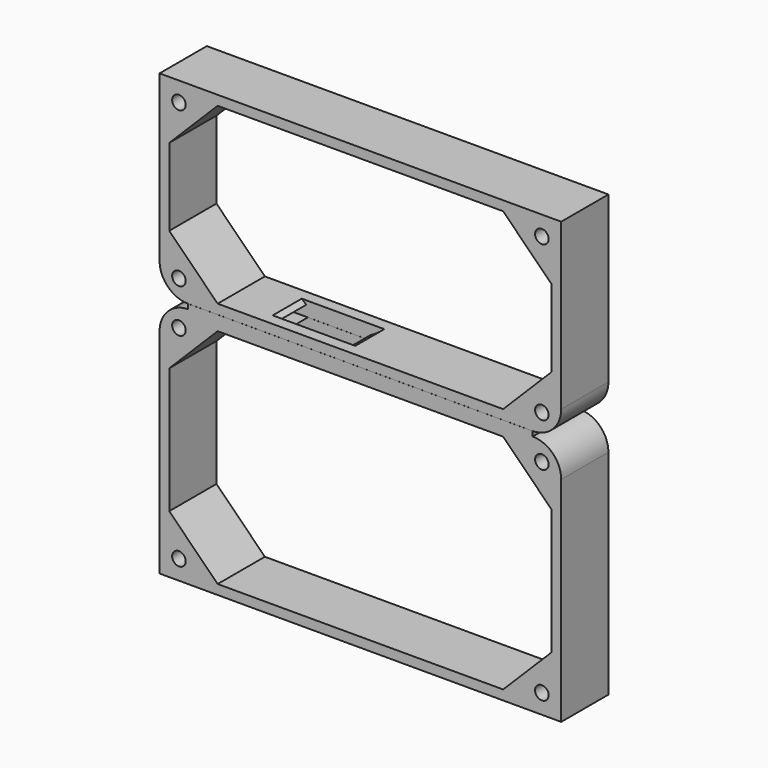
from build123d import *

# Parameters (mm, degrees)
F0_W      = 105.41
F0_H      = 50.8
F2_DEPTH  = 15.494
F1_W      = 105.41
F1_H      = 63.5
F3_DEPTH  = 15.494
F4_W      = 100.33
F4_H      = 45.72
F6_DEPTH  = 25.4
F5_W      = 100.33
F5_H      = 58.42
F7_DEPTH  = 25.4
F8_SIZE   = 12.7
F9_SIZE   = 12.7
F10_R     = 1.778
F12_DEPTH = 25.4
F11_R     = 1.778
F13_DEPTH = 25.4
F16_DEPTH = 4.7625
F17_R     = 7.4811649871
F17_2_R   = 7.4811649871
F18_W     = 37.8915182585
F18_H     = 2.9845
F19_DEPTH = 1.27
F20_W     = 37.8787715588
F20_H     = 2.9845
F21_DEPTH = 1.27
F22_W     = 33.4627879753
F22_H     = 9.4689852803
F23_DEPTH = 1.524


with BuildPart() as f2:
    # F0 (on Front) → F2 (new body)
    with BuildSketch(Plane.XZ):
        with Locations((-0.0005561543, 26.0399340928)):
            Rectangle(F0_W, F0_H)
    extrude(amount=F2_DEPTH)

    # F4 (on face) → F6 (cut)
    with BuildSketch(Plane.XZ.offset(15.494)):
        with Locations((-0.0005561543, 26.0399340928)):
            Rectangle(F4_W, F4_H)
    extrude(amount=-F6_DEPTH, mode=Mode.SUBTRACT)

    # F8
    f8_edges = [f2.edges().sort_by_distance(p)[0] for p in [
        (-50.165556, -7.747, 48.899934),
        (-50.165556, -7.747, 3.179934),
        (50.164444, -7.747, 48.899934),
        (50.164444, -7.747, 3.179934),
    ]]
    chamfer(f8_edges, length=F8_SIZE)

    # F10 (on face) → F12 (cut)
    with BuildSketch(Plane.XZ.offset(15.494)):
        with Locations((-47.6255561543, 46.3599340928)):
            Circle(F10_R)
        with Locations((47.6244438457, 46.3599340928)):
            Circle(F10_R)
        with Locations((47.6244438457, 5.7199340928)):
            Circle(F10_R)
        with Locations((-47.6255561543, 5.7199340928)):
            Circle(F10_R)
    extrude(amount=-F12_DEPTH, mode=Mode.SUBTRACT)


with BuildPart() as f3:
    # F1 (on Front) → F3 (new body)
    with BuildSketch(Plane.XZ):
        with Locations((0.0013719928, -32.3886321804)):
            Rectangle(F1_W, F1_H)
    extrude(amount=F3_DEPTH)

    # F5 (on face) → F7 (cut)
    with BuildSketch(Plane.XZ.offset(15.494)):
        with Locations((0.0013719928, -32.3886321804)):
            Rectangle(F5_W, F5_H)
    extrude(amount=-F7_DEPTH, mode=Mode.SUBTRACT)

    # F9
    f9_edges = [f3.edges().sort_by_distance(p)[0] for p in [
        (-50.163628, -7.747, -3.178632),
        (50.166372, -7.747, -3.178632),
        (-50.163628, -7.747, -61.598632),
        (50.166372, -7.747, -61.598632),
    ]]
    chamfer(f9_edges, length=F9_SIZE)

    # F11 (on face) → F13 (cut)
    with BuildSketch(Plane.XZ.offset(15.494)):
        with Locations((-47.6236280072, -5.7186321804)):
            Circle(F11_R)
        with Locations((47.6263719928, -5.7186321804)):
            Circle(F11_R)
        with Locations((47.6263719928, -59.0586321804)):
            Circle(F11_R)
        with Locations((-47.6236280072, -59.0586321804)):
            Circle(F11_R)
    extrude(amount=-F13_DEPTH, mode=Mode.SUBTRACT)


with BuildPart() as f16_tool:
    # F15 (on offset) → F16 (new body, symmetric)
    with BuildSketch(Plane.XZ.offset(7.747)):
        with BuildLine():
            ThreePointArc((-20.7305265373, 0.1485658363), (-34.1169625247, -54.0672234968), (16.3385446548, -30.1341861486))
            ThreePointArc((16.3385446548, -30.1341861486), (9.3676365689, -10.5826244032), (-8.4002750212, 0.1485658363))
            ThreePointArc((-8.4002750212, 0.1485658363), (-14.5654007792, -1.0989419614), (-20.7305265373, 0.1485658363))
        make_face()
        with BuildLine():
            ThreePointArc((-20.7305265373, 0.1485658363), (-14.5654007792, -1.0989419614), (-8.4002750212, 0.1485658363))
            ThreePointArc((-8.4002750212, 0.1485658363), (-14.5654007792, 0.7697592854), (-20.7305265373, 0.1485658363))
        make_face()
        with BuildLine():
            ThreePointArc((-20.7305265373, 0.1485658363), (-14.5654007792, 0.7697592854), (-8.4002750212, 0.1485658363))
            ThreePointArc((-8.4002750212, 0.1485658363), (-1.3512232992, 5.9922725627), (1.2922360991, 14.758694917))
            ThreePointArc((1.2922360991, 14.758694917), (-23.3318231335, 27.972872397), (-20.7305265373, 0.1485658363))
        make_face()
    extrude(amount=F16_DEPTH, both=True)


with BuildPart() as f2_1:
    add(f2.part)

    # F16: cut by f16_tool
    add(f16_tool.part, mode=Mode.SUBTRACT)

    # F17
    f17_edges = [f2_1.edges().sort_by_distance(p)[0] for p in [
        (52.704444, -7.747, 0.639934),
        (-52.705556, -7.747, 0.639934),
    ]]
    fillet(f17_edges, radius=F17_R)

    # F20 (on face) → F21 (join)
    with BuildSketch(Plane(origin=(0, 0, 0.6399340928), x_dir=(1, 0, 0), z_dir=(0, 0, -1))):
        Polygon((-7.3456196084, 0), (45.2232788587, 0), (45.2232788587, 4.857190419), (-7.3456196084, 4.857190419), (-7.3456196084, 2.9845), align=None)
        with Locations((-26.2850053878, 1.49225)):
            Rectangle(F20_W, F20_H)
    extrude(amount=F21_DEPTH)

    # F22 (on face) → F23 (cut)
    with BuildSketch(Plane(origin=(0, 0, 0.6399340928), x_dir=(1, 0, 0), z_dir=(0, 0, -1))):
        with Locations((-38.5165759378, 7.7189926401)):
            Rectangle(F22_W, F22_H)
    extrude(amount=-F23_DEPTH, mode=Mode.SUBTRACT)


with BuildPart() as f3_1:
    add(f3.part)

    # F16: cut by f16_tool
    add(f16_tool.part, mode=Mode.SUBTRACT)

    # F17#2
    f17_2_edges = [f3_1.edges().sort_by_distance(p)[0] for p in [
        (52.706372, -7.747, -0.638632),
        (-52.703628, -7.747, -0.638632),
    ]]
    fillet(f17_2_edges, radius=F17_2_R)

    # F18 (on face) → F19 (join)
    with BuildSketch(Plane.XY.offset(-0.6386321804)):
        Polygon((-7.3309447616, -15.494), (45.2252070057, -15.494), (45.2252070057, -10.6284385547), (-7.3309447616, -10.6284385547), (-7.3309447616, -12.5095), align=None)
        with Locations((-26.2767038909, -14.00175)):
            Rectangle(F18_W, F18_H)
    extrude(amount=F19_DEPTH)


solid = Compound([f2_1.part, f3_1.part])
